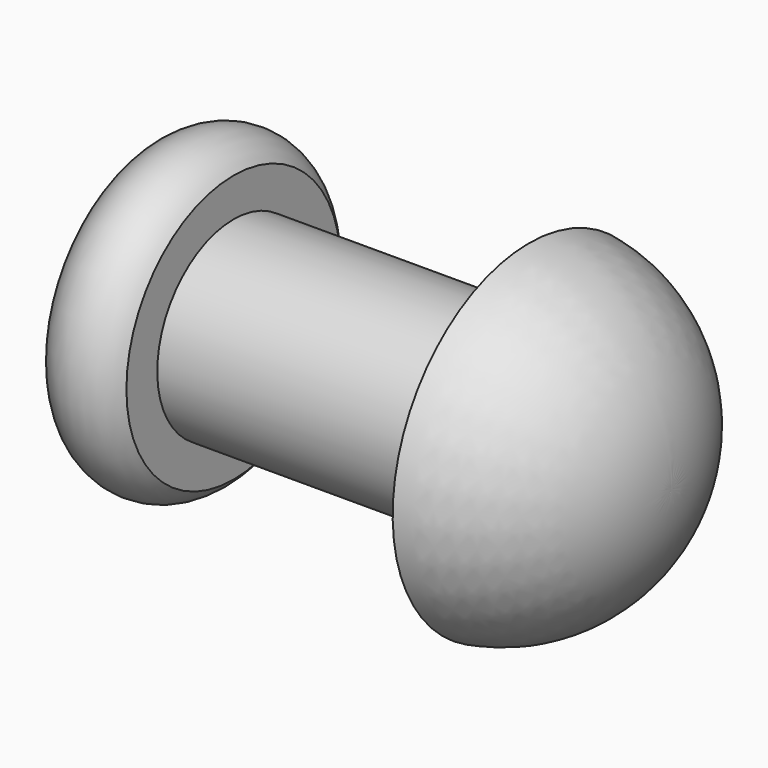
from build123d import *


with BuildPart() as f1:
    # F0 (on Front) → F1 (revolve)
    with BuildSketch(Plane.XZ):
        with BuildLine():
            Line((7.43318, 2.54), (-0.44082, 2.54))
            Line((-0.44082, 2.54), (-0.44082, 3.568044))
            ThreePointArc((-0.44082, 3.568044), (-1.51144, 4.122281), (-2.582059, 3.568044))
            Line((-2.582059, 3.568044), (-2.582059, 0))
            Line((-2.582059, 0), (11.223283, 0))
            ThreePointArc((11.223283, 0), (10.187906, 2.987677), (7.43318, 4.54))
            Line((7.43318, 4.54), (7.43318, 2.54))
        make_face()
    revolve(axis=Axis((7.164439, 0, 0), (1, 0, 0)))


solid = f1.part
